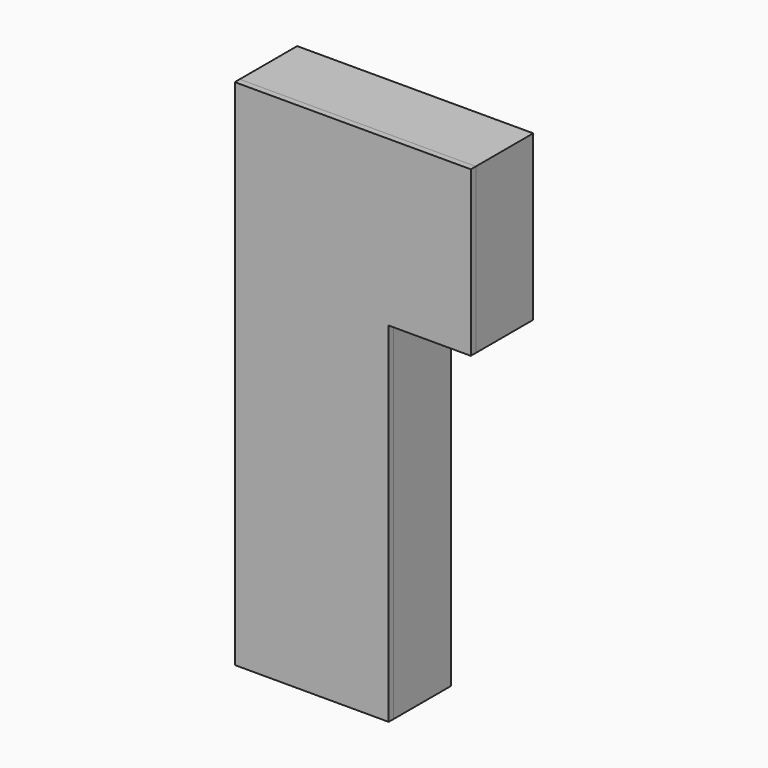
from build123d import *

# Parameters (mm, degrees)
F1_DEPTH = 6
F2_W     = 218
F2_H     = 6
F2_W_2   = 74
F3_DEPTH = 70
F4_W     = 15
F4_H     = 458
F5_DEPTH = 15
F6_W     = 15
F6_H     = 15
F7_DEPTH = 40
F8_W     = 15
F8_H     = 118
F9_DEPTH = 15


with BuildPart() as f1:
    # F0 (on Front) → F1 (new body)
    with BuildSketch(Plane.XZ):
        Polygon((-41.512914, 500), (-41.512914, 0), (108.487086, 0), (108.487086, 340), (188.487086, 340), (188.487086, 500), align=None)
    extrude(amount=F1_DEPTH)


with BuildPart() as f3:
    # F2 (on face) → F3 (new body)
    with BuildSketch(Plane(origin=(0, 0, 0), x_dir=(-1, 0, 0), z_dir=(0, 1, 0))):
        Polygon((-182.487086, 500), (-188.487086, 500), (-188.487086, 340), (-182.487086, 340), (-182.487086, 346), (-182.487086, 494), align=None)
        with Locations((-73.487086, 497)):
            Rectangle(F2_W, F2_H)
        Polygon((41.512914, 500), (35.512914, 500), (35.512914, 494), (35.512914, 6), (41.512914, 6), align=None)
        with Locations((-145.487086, 343)):
            Rectangle(F2_W_2, F2_H)
        Polygon((-108.487086, 346), (-108.487086, 340), (-108.487086, 0), (-102.487086, 0), (-102.487086, 6), (-102.487086, 346), align=None)
        Polygon((41.512914, 6), (35.512914, 6), (-102.487086, 6), (-102.487086, 0), (41.512914, 0), align=None)
    extrude(amount=F3_DEPTH)


with BuildPart() as f5:
    # F4 (on face) → F5 (new body)
    with BuildSketch(Plane.XZ):
        Polygon((182.487086, 494), (-35.512914, 494), (-35.512914, 479), (-20.512914, 479), (167.487086, 479), (182.487086, 479), align=None)
        with Locations((-28.012914, 250)):
            Rectangle(F4_W, F4_H)
        Polygon((182.487086, 346), (182.487086, 479), (167.487086, 479), (167.487086, 361), (167.487086, 346), align=None)
        Polygon((-20.512914, 21), (-35.512914, 21), (-35.512914, 6), (87.487086, 6), (87.487086, 21), align=None)
        Polygon((167.487086, 346), (167.487086, 361), (87.487086, 361), (87.487086, 346), (102.487086, 346), align=None)
        Polygon((87.487086, 346), (87.487086, 21), (87.487086, 6), (102.487086, 6), (102.487086, 346), align=None)
    extrude(amount=-F5_DEPTH)


with BuildPart() as f7:
    # F6 (on face) → F7 (new body)
    with BuildSketch(Plane(origin=(0, 15, 0), x_dir=(-1, 0, 0), z_dir=(0, 1, 0))):
        with Locations((-174.987086, 486.5)):
            Rectangle(F6_W, F6_H)
        with Locations((-174.987086, 353.5)):
            Rectangle(F6_W, F6_H)
        with Locations((-109.987086, 353.5)):
            Rectangle(F6_W, F6_H)
        with Locations((-94.987086, 338.5)):
            Rectangle(F6_W, F6_H)
        with Locations((-94.987086, 13.5)):
            Rectangle(F6_W, F6_H)
        with Locations((28.012914, 13.5)):
            Rectangle(F6_W, F6_H)
        with Locations((28.012914, 486.5)):
            Rectangle(F6_W, F6_H)
    extrude(amount=F7_DEPTH)


with BuildPart() as f9:
    # F8 (on face) → F9 (new body)
    with BuildSketch(Plane(origin=(0, 55, 0), x_dir=(-1, 0, 0), z_dir=(0, 1, 0))):
        Polygon((35.512914, 494), (-182.487086, 494), (-182.487086, 479), (-167.487086, 479), (20.512914, 479), (35.512914, 479), align=None)
        with Locations((-174.987086, 420)):
            Rectangle(F8_W, F8_H)
        Polygon((35.512914, 6), (35.512914, 479), (20.512914, 479), (20.512914, 21), (20.512914, 6), align=None)
        Polygon((-167.487086, 361), (-182.487086, 361), (-182.487086, 346), (-102.487086, 346), (-102.487086, 361), align=None)
        Polygon((20.512914, 6), (20.512914, 21), (-87.487086, 21), (-102.487086, 21), (-102.487086, 6), align=None)
        Polygon((-87.487086, 361), (-102.487086, 361), (-102.487086, 346), (-102.487086, 21), (-87.487086, 21), align=None)
    extrude(amount=F9_DEPTH)


solid = Compound([f1.part, f3.part, f5.part, f7.part, f9.part])
